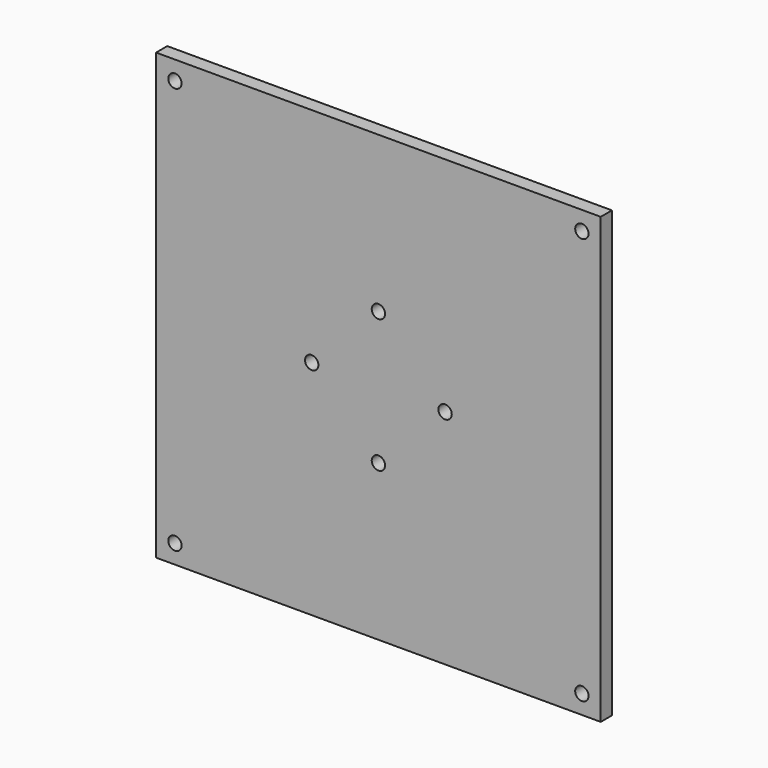
from build123d import *

# Parameters (mm, degrees)
F0_W     = 100
F0_H     = 100
F0_R     = 1.5
F1_DEPTH = 3.15


with BuildPart() as f1:
    # F0 (on Front) → F1 (new body)
    with BuildSketch(Plane.XZ):
        Rectangle(F0_W, F0_H)
        with Locations((-45.757359, -45.757359)):
            Circle(F0_R, mode=Mode.SUBTRACT)
        with Locations((45.757359, -45.757359)):
            Circle(F0_R, mode=Mode.SUBTRACT)
        with Locations((0, -15)):
            Circle(F0_R, mode=Mode.SUBTRACT)
        with Locations((-15, 0)):
            Circle(F0_R, mode=Mode.SUBTRACT)
        with Locations((-45.757359, 45.757359)):
            Circle(F0_R, mode=Mode.SUBTRACT)
        with Locations((15, 0)):
            Circle(F0_R, mode=Mode.SUBTRACT)
        with Locations((0, 15)):
            Circle(F0_R, mode=Mode.SUBTRACT)
        with Locations((45.757359, 45.757359)):
            Circle(F0_R, mode=Mode.SUBTRACT)
    extrude(amount=F1_DEPTH)


solid = f1.part
